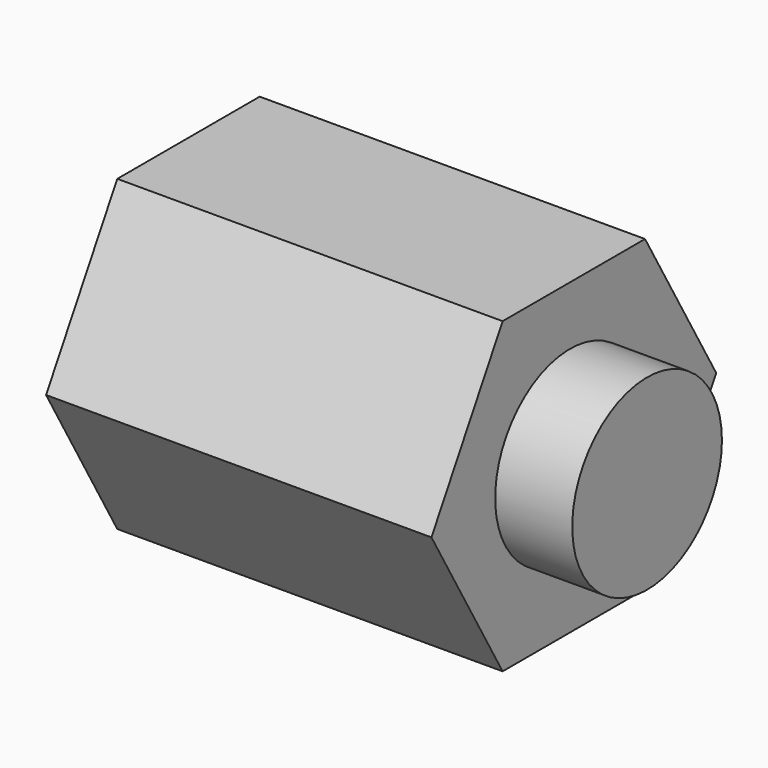
from build123d import *

# Parameters (mm, degrees)
F1_DEPTH = 127
F4_R     = 30.829167
F5_DEPTH = 25.4


with BuildPart() as f1:
    # F0 (on Right) → F1 (new body)
    with BuildSketch(Plane.YZ):
        Polygon((-63.108605, -12.690131), (-4.449818, -12.690131), (24.879576, 38.109869), (-4.449818, 88.909869), (-63.108605, 88.909869), (-92.437999, 38.109869), align=None)
    extrude(amount=F1_DEPTH)

    # F4 (on face) → F5 (join)
    with BuildSketch(Plane.YZ.offset(127)):
        with Locations((-35.355337, 38.777541)):
            Circle(F4_R)
    extrude(amount=F5_DEPTH)


solid = f1.part
